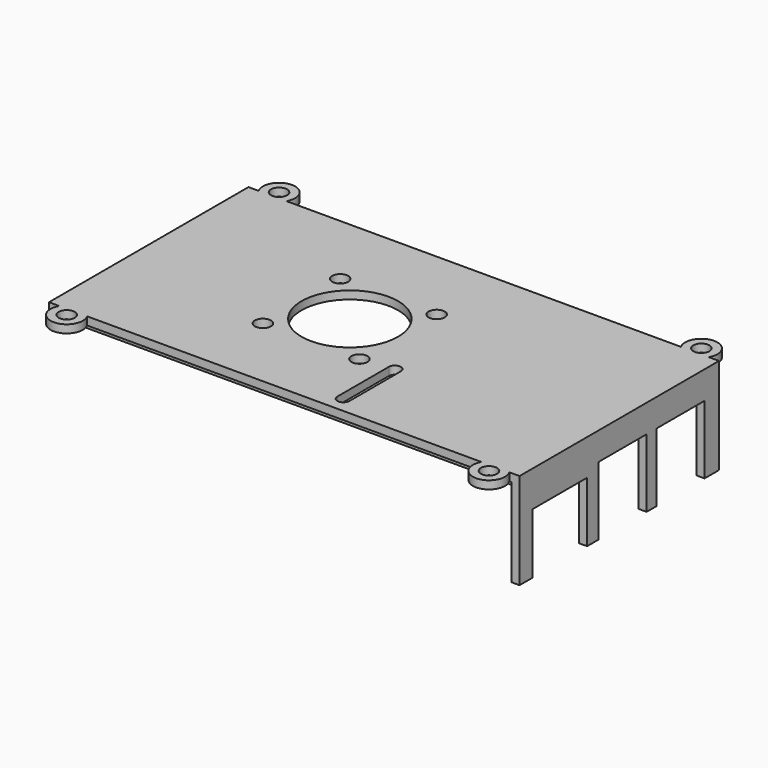
from build123d import *

# Parameters (mm, degrees)
SKETCH_W        = 117
SKETCH_H        = 62
SKETCH_R        = 2
SKETCH_R_2      = 12
PAD_DEPTH       = 2
SKETCH001_W     = 114.9
SKETCH001_H     = 57.8
SKETCH001_W_2   = 110.9
SKETCH001_H_2   = 53.8
SKETCH001_W_3   = 2
SKETCH001_H_3   = 2.1
PAD001_DEPTH    = 2
SKETCH003_R     = 2
POCKET_DEPTH    = 2
SKETCH005_W     = 2
SKETCH005_H     = 62
PAD002_DEPTH    = 19.9
SKETCH006_W     = 2
SKETCH006_H     = 17
POCKET001_DEPTH = 15
SKETCH007_W     = 2
SKETCH007_H     = 15
POCKET002_DEPTH = 17
SKETCH008_R     = 4
SKETCH008_R_2   = 2
PAD003_DEPTH    = 2
SKETCH009_R     = 1.5
POCKET003_DEPTH = 5


with BuildPart() as part:
    # Sketch → Pad (new body)
    with BuildSketch(Plane.XY):
        with Locations((58.5, 31)):
            Rectangle(SKETCH_W, SKETCH_H)
        with Locations((38, 43)):
            Circle(SKETCH_R, mode=Mode.SUBTRACT)
        with Locations((62, 43)):
            Circle(SKETCH_R, mode=Mode.SUBTRACT)
        with Locations((38, 19)):
            Circle(SKETCH_R, mode=Mode.SUBTRACT)
        with Locations((62, 19)):
            Circle(SKETCH_R, mode=Mode.SUBTRACT)
        with Locations((50, 31)):
            Circle(SKETCH_R_2, mode=Mode.SUBTRACT)
        with BuildLine():
            ThreePointArc((71.5, 20), (70, 21.5), (68.5, 20))
            Line((68.5, 20), (68.5, 4))
            ThreePointArc((68.5, 4), (70, 2.5), (71.5, 4))
            Line((71.5, 20), (71.5, 4))
        make_face(mode=Mode.SUBTRACT)
    extrude(amount=PAD_DEPTH)

    # Sketch001 (on Face14 of Pad) → Pad001 (join)
    with BuildSketch(Plane(origin=(0, 0, 0), x_dir=(1, 0, 0), z_dir=(0, 0, -1))):
        with Locations((59.55, -31)):
            Rectangle(SKETCH001_W, SKETCH001_H)
        with Locations((59.55, -31)):
            Rectangle(SKETCH001_W_2, SKETCH001_H_2, mode=Mode.SUBTRACT)
        with Locations((116, -1.05)):
            Rectangle(SKETCH001_W_3, SKETCH001_H_3)
        with Locations((116, -60.95)):
            Rectangle(SKETCH001_W_3, SKETCH001_H_3)
    extrude(amount=PAD001_DEPTH)

    # Sketch003 → Pocket (cut)
    with BuildSketch(Plane.XY.offset(2)):
        with Locations((6, 64)):
            Circle(SKETCH003_R)
        with Locations((113, 64)):
            Circle(SKETCH003_R)
        with Locations((6, -2)):
            Circle(SKETCH003_R)
        with Locations((113, -2)):
            Circle(SKETCH003_R)
    extrude(amount=-POCKET_DEPTH, mode=Mode.SUBTRACT)

    # Sketch005 (on Face16 of Pad001) → Pad002 (join)
    with BuildSketch(Plane(origin=(0, 0, -2), x_dir=(1, 0, 0), z_dir=(0, 0, -1))):
        with Locations((116, -31)):
            Rectangle(SKETCH005_W, SKETCH005_H)
    extrude(amount=PAD002_DEPTH)

    # Sketch006 (on Face37 of Pad002) → Pocket001 (cut)
    with BuildSketch(Plane(origin=(0, 0, -21.9), x_dir=(1, 0, 0), z_dir=(0, 0, -1))):
        with Locations((116, -12.5)):
            Rectangle(SKETCH006_W, SKETCH006_H)
    extrude(amount=-POCKET001_DEPTH, mode=Mode.SUBTRACT)

    # Sketch007 (on Face41 of Pocket001) → Pocket002 (cut)
    with BuildSketch(Plane(origin=(0, 0, -21.9), x_dir=(1, 0, 0), z_dir=(0, 0, -1))):
        with Locations((116, -32)):
            Rectangle(SKETCH007_W, SKETCH007_H)
        with Locations((116, -50)):
            Rectangle(SKETCH007_W, SKETCH007_H)
    extrude(amount=-POCKET002_DEPTH, mode=Mode.SUBTRACT)

    # Sketch008 (on Face4 of Pocket002) → Pad003 (join)
    with BuildSketch(Plane.XY.offset(2)):
        with Locations((6, 64)):
            Circle(SKETCH008_R)
        with Locations((6, 64)):
            Circle(SKETCH008_R_2, mode=Mode.SUBTRACT)
        with Locations((111, 64)):
            Circle(SKETCH008_R)
        with Locations((111, 64)):
            Circle(SKETCH008_R_2, mode=Mode.SUBTRACT)
        with Locations((6, -2)):
            Circle(SKETCH008_R)
        with Locations((6, -2)):
            Circle(SKETCH008_R_2, mode=Mode.SUBTRACT)
        with Locations((111, -2)):
            Circle(SKETCH008_R)
        with Locations((111, -2)):
            Circle(SKETCH008_R_2, mode=Mode.SUBTRACT)
    extrude(amount=-PAD003_DEPTH)

    # Sketch009 (on Face59 of Pad003) → Pocket003 (cut)
    with BuildSketch(Plane.XY):
        with Locations((70, 4)):
            Circle(SKETCH009_R)
    extrude(amount=-POCKET003_DEPTH, mode=Mode.SUBTRACT)


solid = part.part
